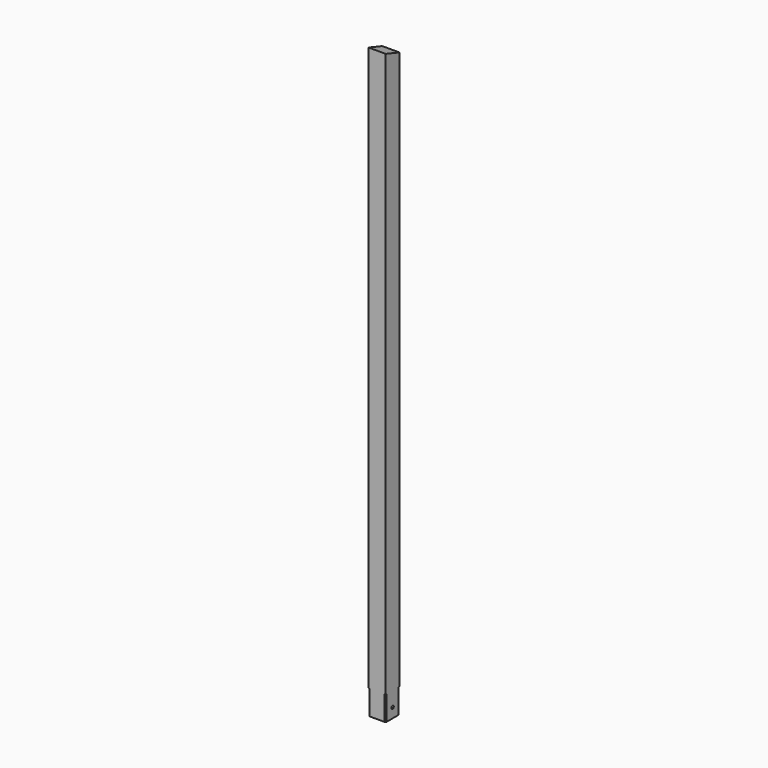
from build123d import *

# Parameters (mm, degrees)
F0_W     = 70
F0_H     = 70
F1_DEPTH = 100
F2_SIZE  = 5
F3_W     = 70
F3_H     = 70
F4_DEPTH = 2295
F5_R     = 6
F6_DEPTH = 70.001


with BuildPart() as f1:
    # F0 (on Top) → F1 (new body)
    with BuildSketch(Plane.XY):
        Rectangle(F0_W, F0_H)
    extrude(amount=F1_DEPTH)

    # F2
    f2_edges = [f1.edges().sort_by_distance(p)[0] for p in [
        (-35, -35, 50),
        (35, -35, 50),
        (35, 35, 50),
        (-35, 35, 50),
    ]]
    chamfer(f2_edges, length=F2_SIZE)

    # F3 (on face) → F4 (join)
    with BuildSketch(Plane.XY.offset(100)):
        Rectangle(F3_W, F3_H)
    extrude(amount=F4_DEPTH)

    # F5 (on face) → F6 (cut, through all)
    with BuildSketch(Plane.YZ.offset(35)):
        with Locations((0, 40)):
            Circle(F5_R)
        Polygon((35, 2395), (-35, 2395), (35, 2371.666667), align=None)
    extrude(amount=-F6_DEPTH, mode=Mode.SUBTRACT)


solid = f1.part
